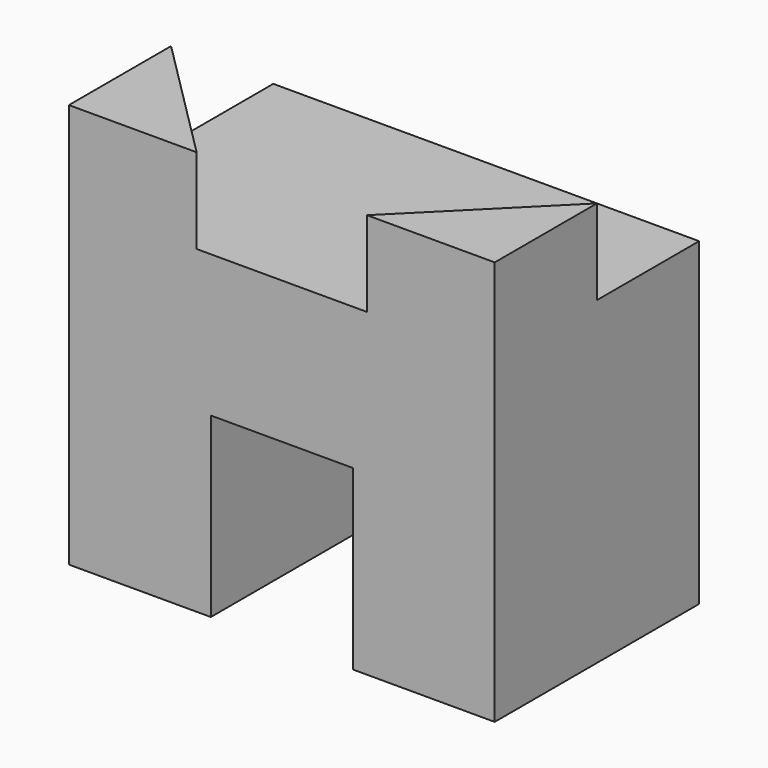
from build123d import *

# Parameters (mm, degrees)
F1_DEPTH = 36
F3_DEPTH = 12


with BuildPart() as f1:
    # F0 (on Front) → F1 (new body)
    with BuildSketch(Plane.XZ):
        Polygon((30, -22.5), (30, 22.5), (10, 22.5), (-10, 22.5), (-30, 22.5), (-30, -22.5), (-10, -22.5), (-10, 2.5), (10, 2.5), (10, -22.5), align=None)
    extrude(amount=F1_DEPTH)

    # F2 (on face) → F3 (join)
    with BuildSketch(Plane.XY.offset(22.5)):
        Polygon((-30, -18), (-30, -36), (-12, -36), align=None)
        Polygon((30, -18), (12, -36), (30, -36), align=None)
    extrude(amount=F3_DEPTH)


solid = f1.part
